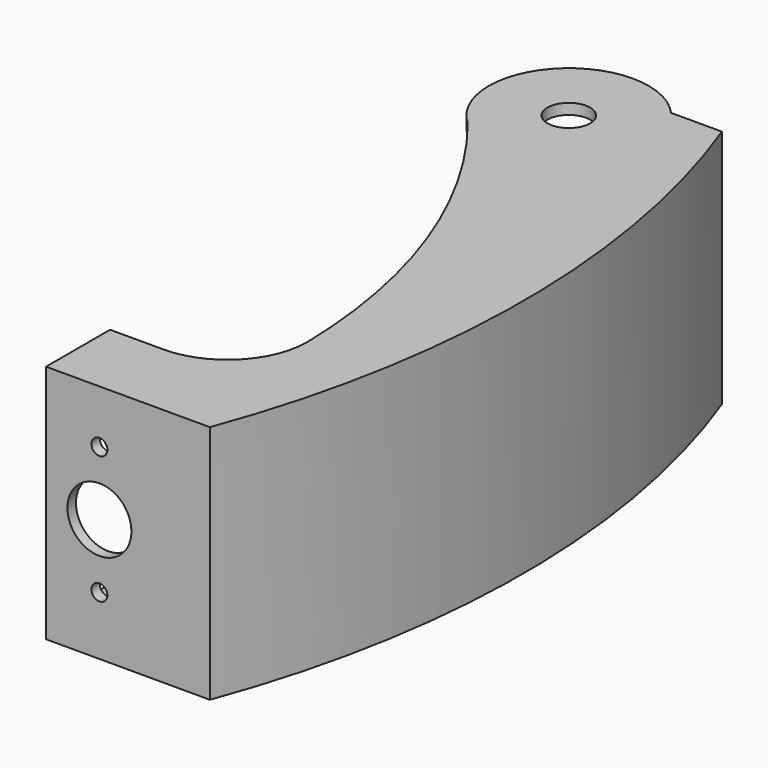
from build123d import *

# Parameters (mm, degrees)
SKETCH_R        = 2
SKETCH_R_2      = 0.5
PAD_DEPTH       = 3
SKETCH003_R     = 2
POCKET_DEPTH    = 2
PAD001_DEPTH    = 40
SKETCH001_R     = 4
PAD002_DEPTH    = 2
SKETCH004_R     = 6
SKETCH004_R_2   = 1.5
POCKET001_DEPTH = 5
SKETCH005_R     = 4
POCKET002_DEPTH = 1.5


with BuildPart() as part:
    # Sketch → Pad (new body)
    with BuildSketch(Plane.XY):
        with BuildLine():
            Line((0, 0), (30.712315, 0))
            ThreePointArc((30.712315, 0), (41.547219, 60), (30.712315, 120))
            Line((21.18034, 120), (30.712315, 120))
            ThreePointArc((21.18034, 120), (-0.606602, 120.606602), (0, 98.81966))
            Line((0, 98.81966), (0, 45))
            Line((10, 45), (0, 45))
            ThreePointArc((10, 15), (25, 30), (10, 45))
            Line((10, 15), (0, 15))
            Line((0, 15), (0, 0))
        make_face()
        with Locations((10, 110)):
            Circle(SKETCH_R, mode=Mode.SUBTRACT)
        with Locations((10, 117)):
            Circle(SKETCH_R_2, mode=Mode.SUBTRACT)
        with Locations((17, 110)):
            Circle(SKETCH_R_2, mode=Mode.SUBTRACT)
        with Locations((10, 103)):
            Circle(SKETCH_R_2, mode=Mode.SUBTRACT)
        with Locations((3, 110)):
            Circle(SKETCH_R_2, mode=Mode.SUBTRACT)
        with Locations((14.949747, 114.949747)):
            Circle(SKETCH_R_2, mode=Mode.SUBTRACT)
        with Locations((14.949747, 105.050253)):
            Circle(SKETCH_R_2, mode=Mode.SUBTRACT)
        with Locations((5.050253, 105.050253)):
            Circle(SKETCH_R_2, mode=Mode.SUBTRACT)
        with Locations((5.050253, 114.949747)):
            Circle(SKETCH_R_2, mode=Mode.SUBTRACT)
    extrude(amount=PAD_DEPTH)

    # Sketch003 → Pocket (cut)
    with BuildSketch(Plane(origin=(0, 0, 0), x_dir=(1, 0, 0), z_dir=(0, 0, -1))):
        with Locations((5.050253, -114.949747)):
            Circle(SKETCH003_R)
        with Locations((5.050253, -105.050253)):
            Circle(SKETCH003_R)
        with Locations((14.949747, -105.050253)):
            Circle(SKETCH003_R)
        with Locations((14.949747, -114.949747)):
            Circle(SKETCH003_R)
        with Locations((10, -103)):
            Circle(SKETCH003_R)
        with Locations((17, -110)):
            Circle(SKETCH003_R)
        with Locations((10, -117)):
            Circle(SKETCH003_R)
        with Locations((3, -110)):
            Circle(SKETCH003_R)
    extrude(amount=-POCKET_DEPTH, mode=Mode.SUBTRACT)

    # Sketch002 (on Face20 of Pad) → Pad001 (join)
    with BuildSketch(Plane.XY.offset(3)):
        with BuildLine():
            ThreePointArc((30.712315, 0), (41.547219, 60), (30.712315, 120))
            Line((30.712315, 120), (27.712315, 120))
            ThreePointArc((27.712315, 2), (39.40543, 61), (27.712315, 120))
            Line((0, 2), (27.712315, 2))
            Line((0, 0), (0, 2))
            Line((30.712315, 0), (0, 0))
        make_face()
    extrude(amount=PAD001_DEPTH)

    # Sketch001 (on Face33 of Pad001) → Pad002 (join)
    with BuildSketch(Plane.XY.offset(43)):
        with BuildLine():
            Line((10, 15), (0, 15))
            Line((0, 15), (0, 0))
            Line((0, 0), (30.712315, 0))
            ThreePointArc((30.712315, 0), (41.547219, 60), (30.712315, 120))
            Line((30.712315, 120), (21.18034, 120))
            ThreePointArc((21.18034, 120), (-0.606586, 120.606617), (-3.3e-05, 98.81969))
            ThreePointArc((25, 30), (18.168448, 66.46902), (-3.3e-05, 98.81969))
            ThreePointArc((10, 15), (20.606602, 19.393398), (25, 30))
        make_face()
        with Locations((10, 110)):
            Circle(SKETCH001_R, mode=Mode.SUBTRACT)
    extrude(amount=PAD002_DEPTH)

    # Sketch004 (on Face32 of Pad002) → Pocket001 (cut)
    with BuildSketch(Plane.XZ):
        with Locations((10, 23)):
            Circle(SKETCH004_R)
        with Locations((10, 35)):
            Circle(SKETCH004_R_2)
        with Locations((10, 11)):
            Circle(SKETCH004_R_2)
    extrude(amount=-POCKET001_DEPTH, mode=Mode.SUBTRACT)

    # Sketch005 (on Face4 of Pocket001) → Pocket002 (cut)
    with BuildSketch(Plane(origin=(0, 0, 0), x_dir=(1, 0, 0), z_dir=(0, 0, -1))):
        with Locations((10, -110)):
            Circle(SKETCH005_R)
    extrude(amount=-POCKET002_DEPTH, mode=Mode.SUBTRACT)


solid = part.part
